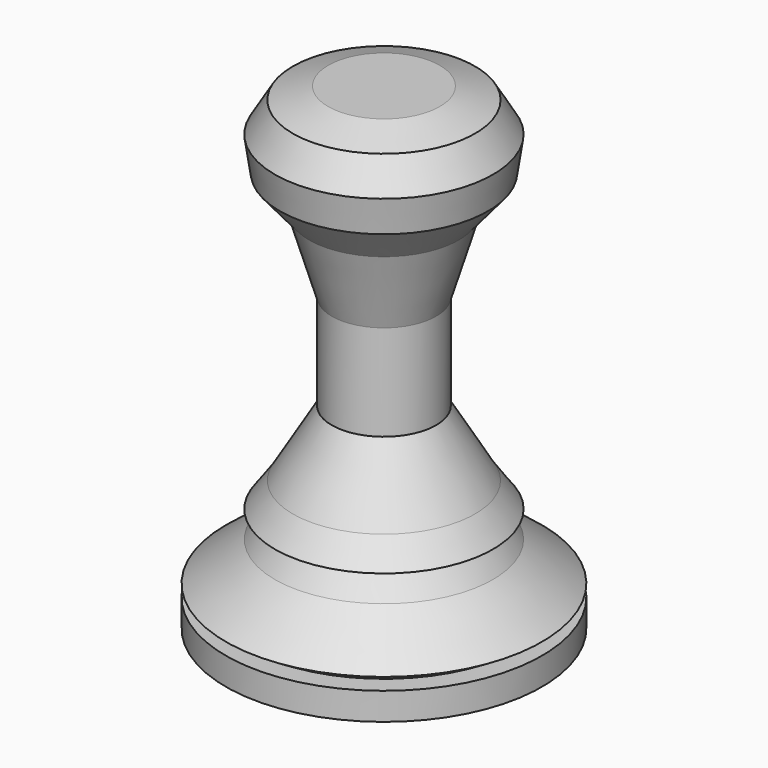
from build123d import *


with BuildPart() as f1:
    # F0 (on Front) → F1 (revolve)
    with BuildSketch(Plane.XZ):
        Polygon((0, -76.33587), (0, 75.874634), (-17.86969, 75.874634), (-29.170169, 71.954064), (-34.935717, 62.267937), (-33.321362, 51.428702), (-23.865862, 40.128227), (-16.716581, 16.374163), (-16.716581, -14.29856), (-29.170169, -35.28516), (-34.935717, -43.356929), (-29.170169, -43.356929), (-34.935717, -51.889941), (-50.618012, -64.343527), (-44.160597, -68.264104), (-50.618012, -68.264104), (-50.618012, -77.027738), align=None)
    revolve(axis=Axis((0, 0, -0.230618), (0, 0, -1)))


solid = f1.part
